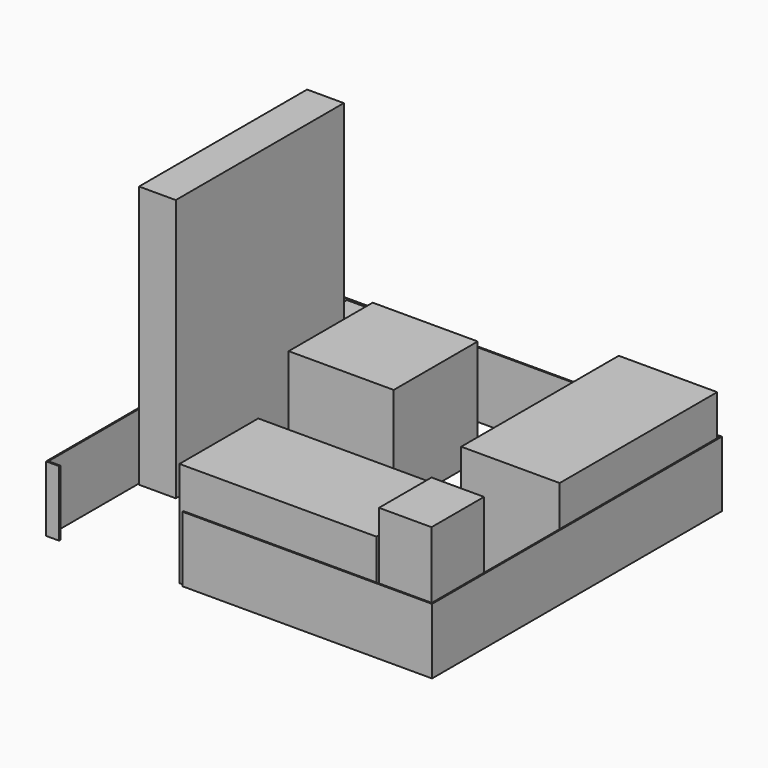
from build123d import *

# Parameters (mm, degrees)
F1_DEPTH = 500
F0_W     = 280
F0_H     = 1600
F2_DEPTH = 2000
F0_W_2   = 760
F0_H_2   = 200
F3_DEPTH = 500
F0_W_3   = 800
F0_H_3   = 800
F4_DEPTH = 800
F0_W_4   = 400
F0_H_4   = 500
F5_DEPTH = 1000
F0_W_5   = 1500
F0_H_5   = 750
F6_DEPTH = 800
F0_W_6   = 750
F0_H_6   = 1500
F7_DEPTH = 800


with BuildPart() as f1:
    # F0 (on Top) → F1 (new body)
    with BuildSketch(Plane.XY):
        Polygon((-1490, -750), (-1490, 1990), (1430, 1990), (1430, -750), (-460, -750), (-460, -760), (1440, -760), (1440, 2000), (-1500, 2000), (-1500, -760), (-1400, -760), (-1400, -750), align=None)
    extrude(amount=F1_DEPTH)


with BuildPart() as f2:
    # F0 (on Top) → F2 (new body)
    with BuildSketch(Plane.XY):
        with Locations((-1340, 900)):
            Rectangle(F0_W, F0_H)
    extrude(amount=F2_DEPTH)


with BuildPart() as f3:
    # F0 (on Top) → F3 (new body)
    with BuildSketch(Plane.XY):
        with Locations((-1020, 1880)):
            Rectangle(F0_W_2, F0_H_2)
    extrude(amount=F3_DEPTH)


with BuildPart() as f4:
    # F0 (on Top) → F4 (new body)
    with BuildSketch(Plane.XY):
        with Locations((-500, 1200)):
            Rectangle(F0_W_3, F0_H_3)
    extrude(amount=F4_DEPTH)


with BuildPart() as f5:
    # F0 (on Top) → F5 (new body)
    with BuildSketch(Plane.XY):
        with Locations((1220, -490)):
            Rectangle(F0_W_4, F0_H_4)
    extrude(amount=F5_DEPTH)


with BuildPart() as f6:
    # F0 (on Top) → F6 (new body)
    with BuildSketch(Plane.XY):
        with Locations((250, -365)):
            Rectangle(F0_W_5, F0_H_5)
    extrude(amount=F6_DEPTH)


with BuildPart() as f7:
    # F0 (on Top) → F7 (new body)
    with BuildSketch(Plane.XY):
        with Locations((1045, 1230)):
            Rectangle(F0_W_6, F0_H_6)
    extrude(amount=F7_DEPTH)


solid = Compound([f1.part, f2.part, f3.part, f4.part, f5.part, f6.part, f7.part])
